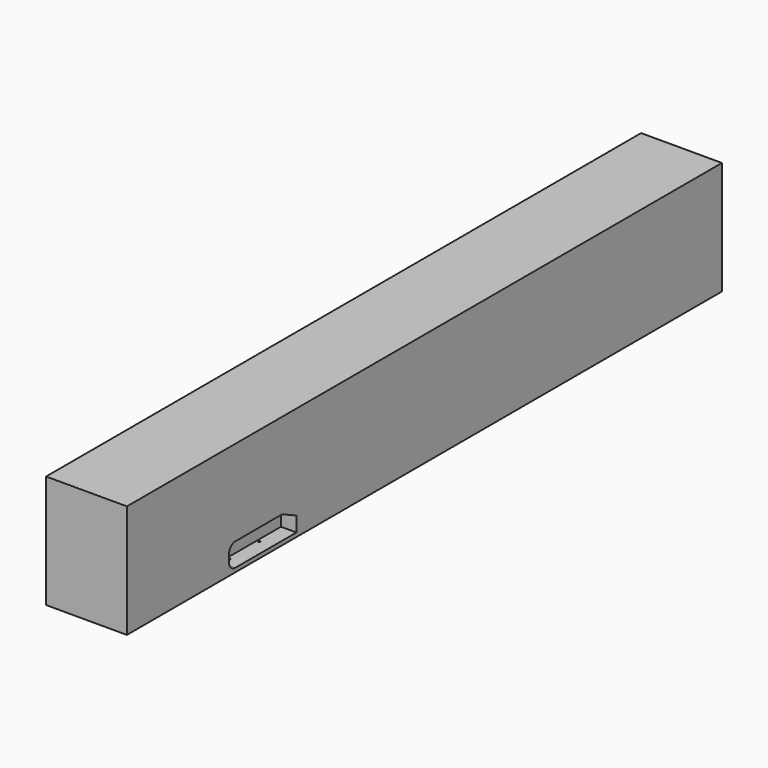
from build123d import *

# Parameters (mm, degrees)
F0_W      = 384
F0_H      = 1044
F1_DEPTH  = 338
F2_W      = 384
F2_H      = 50
F3_DEPTH  = 1044.001
F4_R      = 100
F5_SIZE2  = 103.5203001104
F5_SIZE   = 222
F6_R      = 15
F7_DEPTH  = 50
F8_W      = 2000
F8_H      = 9200
F9_DEPTH  = 1400
F11_W     = 1000
F11_H     = 1400
F12_DEPTH = 9200.001


with BuildPart() as f1:
    # F0 (on Top) → F1 (new body)
    with BuildSketch(Plane.XY):
        Rectangle(F0_W, F0_H)
    extrude(amount=F1_DEPTH)

    # F2 (on face) → F3 (cut, through all)
    with BuildSketch(Plane.XZ.offset(522)):
        with Locations((0, 25)):
            Rectangle(F2_W, F2_H)
    extrude(amount=-F3_DEPTH, mode=Mode.SUBTRACT)

    # F4
    f4_edges = [f1.edges().sort_by_distance(p)[0] for p in [
        (-192, -522, 194),
        (0, -522, 338),
        (192, -522, 194),
        (0, -522, 50),
    ]]
    fillet(f4_edges, radius=F4_R)

    # F5
    f5_edges = [f1.edges().sort_by_distance(p)[0] for p in [
        (0, 522, 338),
    ]]
    f5_side = f1.faces().sort_by_distance((0, 50, 338))[0]
    chamfer(f5_edges, length=F5_SIZE, length2=F5_SIZE2, reference=f5_side)

    # F6 (on Top) → F7 (join, through all)
    with BuildSketch(Plane.XY):
        with Locations((163.5, -320)):
            Circle(F6_R)
        with Locations((163.5, 150)):
            Circle(F6_R)
        with Locations((-163.5, 150)):
            Circle(F6_R)
        with Locations((-163.5, -320)):
            Circle(F6_R)
    extrude(amount=F7_DEPTH)


with BuildPart() as f9:
    # F8 (on Top) → F9 (new body)
    with BuildSketch(Plane.XY):
        with Locations((0, 2500)):
            Rectangle(F8_W, F8_H)
    extrude(amount=F9_DEPTH)

    # F10: cut F1
    add(f1.part, mode=Mode.SUBTRACT)

    # F11 (on face) → F12 (cut, through all)
    with BuildSketch(Plane.XZ.offset(2100)):
        with Locations((500, 700)):
            Rectangle(F11_W, F11_H)
    extrude(amount=-F12_DEPTH, mode=Mode.SUBTRACT)


solid = f9.part
